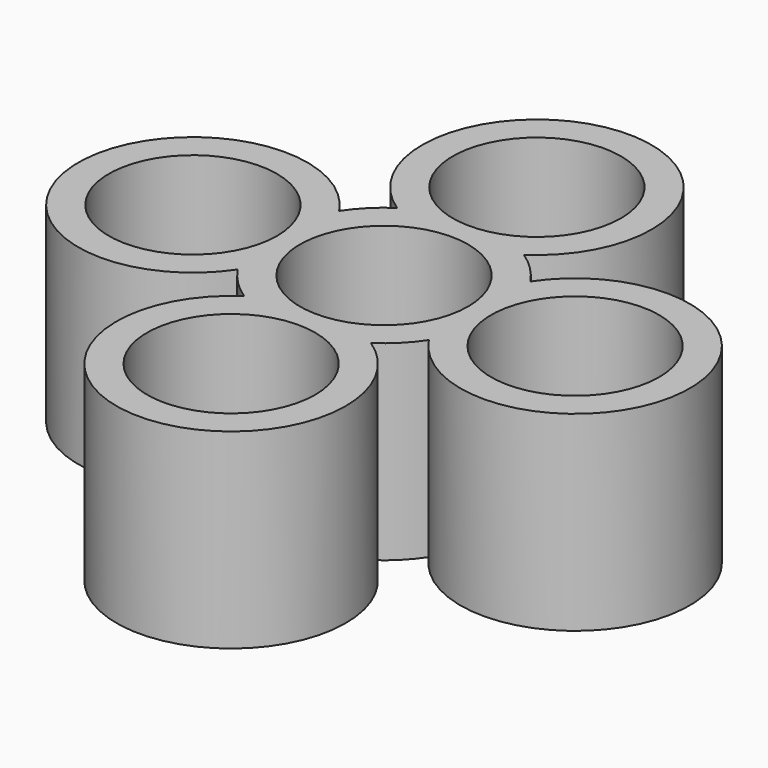
from build123d import *

# Parameters (mm, degrees)
F0_R     = 11
F1_DEPTH = 25


with BuildPart() as f1:
    # F0 (on Top) → F1 (new body)
    with BuildSketch(Plane.XY):
        with BuildLine():
            ThreePointArc((12.5, -8.291562), (40, 0), (12.5, 8.291562))
            ThreePointArc((12.5, 8.291562), (10.606602, 10.606602), (8.291562, 12.5))
            ThreePointArc((8.291562, 12.5), (0, 40), (-8.291562, 12.5))
            ThreePointArc((-8.291562, 12.5), (-10.606602, 10.606602), (-12.5, 8.291562))
            ThreePointArc((-12.5, 8.291562), (-40, 0), (-12.5, -8.291562))
            ThreePointArc((-12.5, -8.291562), (-10.606602, -10.606602), (-8.291562, -12.5))
            ThreePointArc((-8.291562, -12.5), (0, -40), (8.291562, -12.5))
            ThreePointArc((8.291562, -12.5), (10.606602, -10.606602), (12.5, -8.291562))
        make_face()
        with Locations((0, -25)):
            Circle(F0_R, mode=Mode.SUBTRACT)
        with Locations((-25, 0)):
            Circle(F0_R, mode=Mode.SUBTRACT)
        Circle(F0_R, mode=Mode.SUBTRACT)
        with Locations((25, 0)):
            Circle(F0_R, mode=Mode.SUBTRACT)
        with Locations((0, 25)):
            Circle(F0_R, mode=Mode.SUBTRACT)
    extrude(amount=F1_DEPTH)


solid = f1.part
